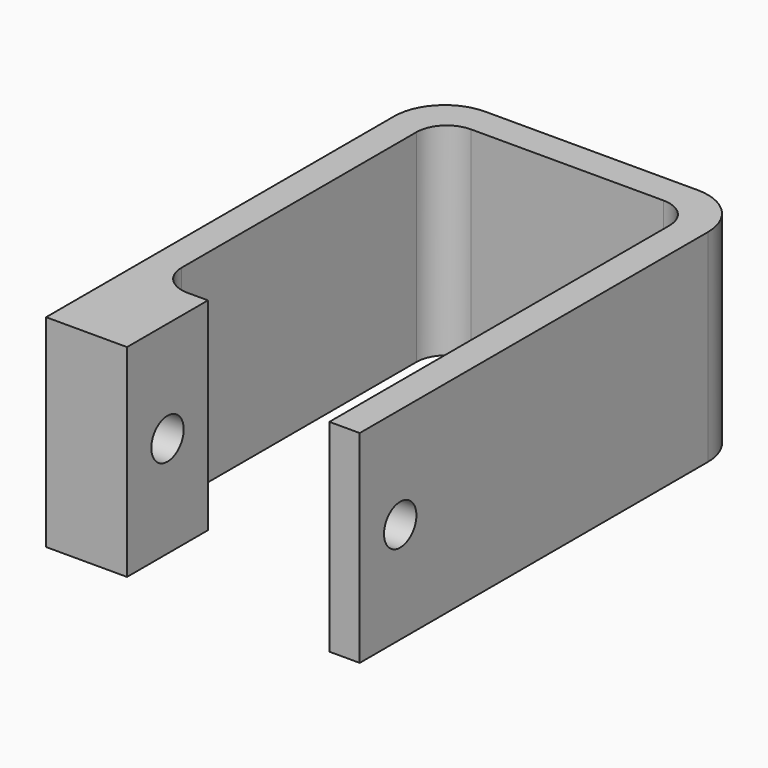
from build123d import *

# Parameters (mm, degrees)
F0_W     = 25
F0_H     = 3
F0_W_2   = 3
F0_H_2   = 20
F1_DEPTH = 20
F3_D     = 4
F3_DEPTH = 120
F4_R     = 3
F5_R     = 5


with BuildPart() as f1:
    # F0 (on Top) → F1 (new body)
    with BuildSketch(Plane.XY):
        Polygon((-44.083337, -10), (-44.083337, 0), (-47.083337, 0), (-47.083337, -20), (-39.083337, -20), (-39.083337, -10), align=None)
        Polygon((-47.083337, 0), (-44.083337, 0), (-44.083337, 25), (-44.083337, 28), (-47.083337, 28), align=None)
        with Locations((-31.583337, 26.5)):
            Rectangle(F0_W, F0_H)
        Polygon((-19.083337, 25), (-19.083337, 0), (-16.083337, 0), (-16.083337, 28), (-19.083337, 28), align=None)
        with Locations((-17.583337, -10)):
            Rectangle(F0_W_2, F0_H_2)
    extrude(amount=F1_DEPTH)

    # F3
    with Locations(Plane(origin=(-47.083337, 0, 0), x_dir=(0, -1, 0), z_dir=(-1, 0, 0))):
        with Locations((15, 10)):
            Hole(F3_D / 2, depth=F3_DEPTH)

    # F4
    f4_edges = [f1.edges().sort_by_distance(p)[0] for p in [
        (-19.083337, 25, 10),
        (-44.083337, 25, 10),
        (-44.083337, -10, 10),
    ]]
    fillet(f4_edges, radius=F4_R)

    # F5
    f5_edges = [f1.edges().sort_by_distance(p)[0] for p in [
        (-47.083337, 28, 10),
        (-16.083337, 28, 10),
    ]]
    fillet(f5_edges, radius=F5_R)


solid = f1.part
